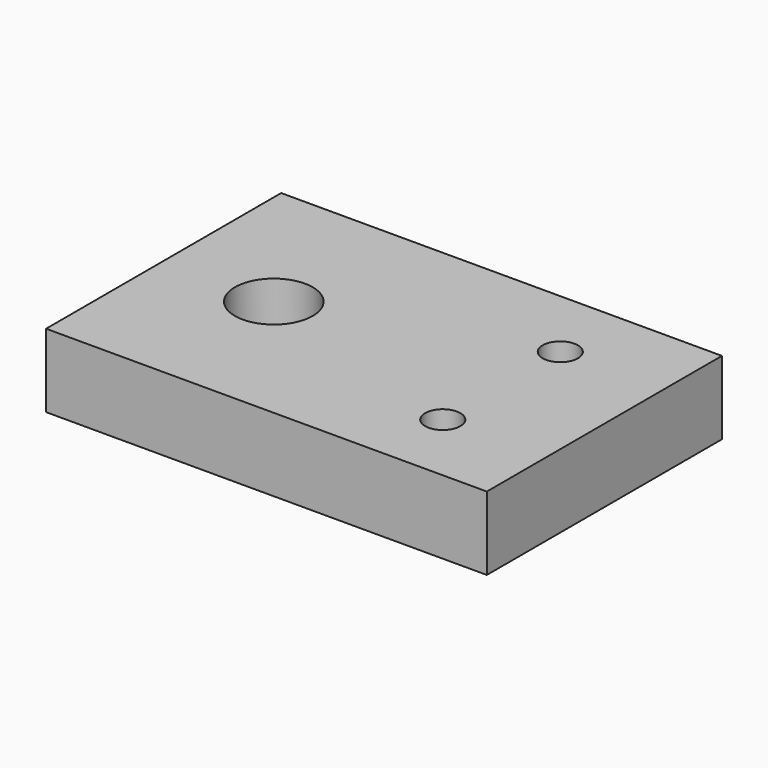
from build123d import *

# Parameters (mm, degrees)
SKETCH_W        = 30
SKETCH_H        = 20
PAD_DEPTH       = 5
SKETCH001_R     = 1.2
POCKET_DEPTH    = 5
SKETCH002_R     = 2.65
POCKET001_DEPTH = 5


with BuildPart() as part:
    # Sketch → Pad (new body)
    with BuildSketch(Plane.XY):
        Rectangle(SKETCH_W, SKETCH_H)
    extrude(amount=PAD_DEPTH)

    # Sketch001 (on Face6 of Pad) → Pocket (cut)
    with BuildSketch(Plane.XY.offset(5)):
        with Locations((8, 5)):
            Circle(SKETCH001_R)
        with Locations((8, -5)):
            Circle(SKETCH001_R)
    extrude(amount=-POCKET_DEPTH, mode=Mode.SUBTRACT)

    # Sketch002 (on Face5 of Pocket) → Pocket001 (cut)
    with BuildSketch(Plane.XY.offset(5)):
        with Locations((-7.5, 0)):
            Circle(SKETCH002_R)
    extrude(amount=-POCKET001_DEPTH, mode=Mode.SUBTRACT)


solid = part.part
